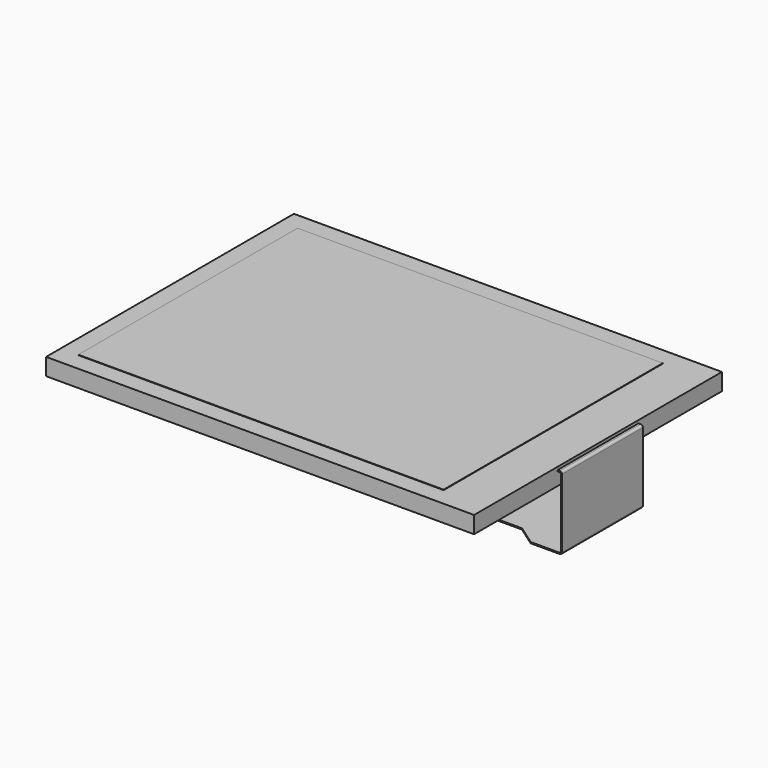
from build123d import *

# Parameters (mm, degrees)
SKETCH001_W  = 40.8
SKETCH001_H  = 30.6
PAD001_DEPTH = 1
SKETCH_W     = 47.8
SKETCH_H     = 34.6
PAD_DEPTH    = 0.95
PAD002_DEPTH = 5.65
PAD003_DEPTH = 0.13


with BuildPart() as part:
    # Sketch001 → Pad001 (new body)
    with BuildSketch(Plane.XY):
        Rectangle(SKETCH001_W, SKETCH001_H)
    extrude(amount=PAD001_DEPTH)

    # Sketch → Pad (join, symmetric)
    with BuildSketch(Plane.XY):
        with Locations((1.5, 0)):
            Rectangle(SKETCH_W, SKETCH_H)
    extrude(amount=PAD_DEPTH, both=True)

    # Sketch002 → Pad002 (join, symmetric)
    with BuildSketch(Plane.XZ):
        with BuildLine():
            Line((25.4, 0.5), (25.62, 0.5))
            ThreePointArc((25.77, 0.35), (25.726066, 0.456066), (25.62, 0.5))
            Line((25.77, 0.35), (25.77, -7.27))
            ThreePointArc((25.62, -7.42), (25.726066, -7.376066), (25.77, -7.27))
            Line((25.4, -7.42), (25.62, -7.42))
            Line((25.4, -7.55), (25.4, -7.42))
            Line((25.65, -7.55), (25.4, -7.55))
            ThreePointArc((25.65, -7.55), (25.826777, -7.476777), (25.9, -7.3))
            Line((25.9, 0.38), (25.9, -7.3))
            ThreePointArc((25.9, 0.38), (25.826777, 0.556777), (25.65, 0.63))
            Line((25.4, 0.63), (25.65, 0.63))
            Line((25.4, 0.5), (25.4, 0.63))
        make_face()
    extrude(amount=PAD002_DEPTH, both=True)

    # Sketch003 (on DatumPlane) → Pad003 (join)
    with BuildSketch(Plane(origin=(0, 0, -7.55), x_dir=(-1, 0, 0), z_dir=(0, 0, -1))):
        Polygon((-25.4, -5.65), (-25.4, 5.65), (-23.393548, 5.65), (-20.2, 7.9), (-10.6, 7.9), (-10.6, -4.1), (-20.2, -4.1), (-22.4, -5.65), align=None)
    extrude(amount=-PAD003_DEPTH)


solid = part.part
